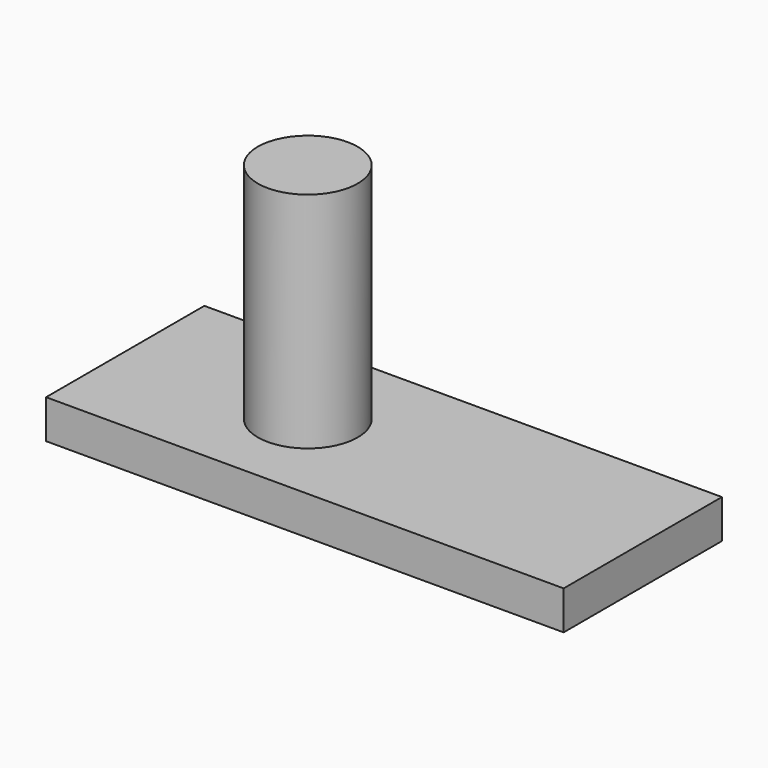
from build123d import *

# Parameters (mm, degrees)
F0_W     = 8.7084230036
F0_H     = 38.9699079096
F2_W     = 90.2628563344
F2_H     = 34.500811249
F3_DEPTH = 6.75614


with BuildPart() as f1:
    # F0 (on Front) → F1 (revolve)
    with BuildSketch(Plane.XZ):
        with Locations((-4.3542115018, 19.4849539548)):
            Rectangle(F0_W, F0_H)
    revolve(axis=Axis((0, 0, 19.4849539548), (0, 0, 1)))

    # F2 (on Top) → F3 (join)
    with BuildSketch(Plane.XY):
        with Locations((13.2931489497, 0)):
            Rectangle(F2_W, F2_H)
    extrude(amount=-F3_DEPTH)


solid = f1.part
